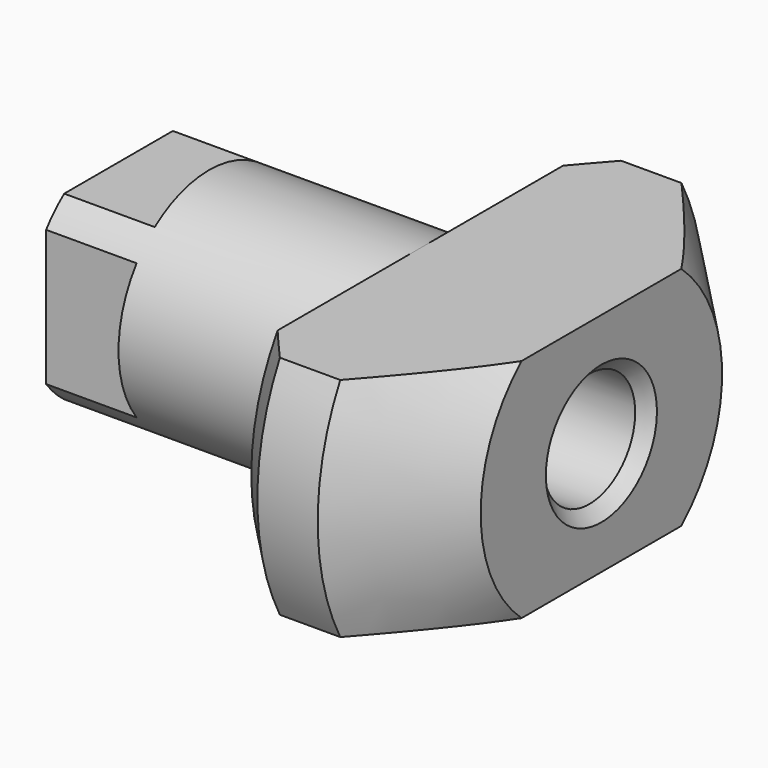
from build123d import *

# Parameters (mm, degrees)
CYLINDER017_R         = 1.9
CYLINDER017_DEPTH     = 5
CYLINDER016_R         = 1.6
CYLINDER016_DEPTH     = 30.25
CYLINDER013_R         = 3.75
CYLINDER013_DEPTH     = 7.25
BOX028_W              = 6
BOX028_H              = 16
BOX028_DEPTH          = 7.5
CHAMFER006006014_SIZE = 3
CYLINDER015_R         = 8
CYLINDER015_DEPTH     = 6
CHAMFER006006017_SIZE = 3
BOX029_W              = 3
BOX029_H              = 6
BOX029_DEPTH          = 6
CYLINDER014_R         = 3.75
CYLINDER014_DEPTH     = 7.25
CHAMFER006006018_SIZE = 0.4
CHAMFER006006020_SIZE = 1


with BuildPart() as cylinder017:
    # Cylinder017 → Cylinder017 (new body)
    with BuildSketch(Plane(origin=(8.25, 15, 22), x_dir=(0, 0, 1), z_dir=(-1, 0, 0))):
        Circle(CYLINDER017_R)
    extrude(amount=CYLINDER017_DEPTH)


with BuildPart() as fusion008:
    # Cylinder016 → Cylinder016 (new body)
    with BuildSketch(Plane(origin=(9.25, 15, 22), x_dir=(0, 0, 1), z_dir=(-1, 0, 0))):
        Circle(CYLINDER016_R)
    extrude(amount=CYLINDER016_DEPTH)

    # Fusion008: union Cylinder017
    add(cylinder017.part)


with BuildPart() as fusion008_1:
    # Fusion008 placement: moved
    add(fusion008.part.moved(Location((-0.25, 0, 0))))


with BuildPart() as cylinder013:
    # Cylinder013 → Cylinder013 (new body)
    with BuildSketch(Plane(origin=(2.25, 15, 22), x_dir=(0, 0, 1), z_dir=(-1, 0, 0))):
        Circle(CYLINDER013_R)
    extrude(amount=CYLINDER013_DEPTH)


with BuildPart() as chamfer006006014:
    # Box028 → Box028 (new body)
    with BuildSketch(Plane(origin=(2, 7, 18.25), x_dir=(1, 0, 0), z_dir=(0, 0, 1))):
        with Locations((3, 8)):
            Rectangle(BOX028_W, BOX028_H)
    extrude(amount=BOX028_DEPTH)

    # Chamfer006006014
    chamfer006006014_edges = [chamfer006006014.edges().sort_by_distance(p)[0] for p in [
        (8, 7, 22),
        (8, 23, 22),
    ]]
    chamfer(chamfer006006014_edges, length=CHAMFER006006014_SIZE)


with BuildPart() as chamfer006006014_1:
    # Chamfer006006014 placement: moved
    add(chamfer006006014.part.moved(Location((0.25, 0, 0))))


with BuildPart() as common003:
    # Cylinder015 → Cylinder015 (new body)
    with BuildSketch(Plane(origin=(2.25, 15, 22), x_dir=(0, 0, -1), z_dir=(1, 0, 0))):
        Circle(CYLINDER015_R)
    extrude(amount=CYLINDER015_DEPTH)

    # Chamfer006006017
    chamfer006006017_edges = [common003.edges().sort_by_distance(p)[0] for p in [
        (8.25, 15, 30),
    ]]
    chamfer(chamfer006006017_edges, length=CHAMFER006006017_SIZE)

    # Common003: intersect Chamfer006006014
    add(chamfer006006014_1.part, mode=Mode.INTERSECT)


with BuildPart() as common003_1:
    # Common003 placement: moved
    add(common003.part.moved(Location((-0.25, 0, 0))))


with BuildPart() as cube028:
    # Box029 → Box029 (new body)
    with BuildSketch(Plane(origin=(-8, 12, 19), x_dir=(1, 0, 0), z_dir=(0, 0, 1))):
        with Locations((1.5, 3)):
            Rectangle(BOX029_W, BOX029_H)
    extrude(amount=BOX029_DEPTH)


with BuildPart() as chamfer006006020:
    # Cylinder014 → Cylinder014 (new body)
    with BuildSketch(Plane(origin=(-3.75, 15, 22), x_dir=(0, 0, 1), z_dir=(-1, 0, 0))):
        Circle(CYLINDER014_R)
    extrude(amount=CYLINDER014_DEPTH)

    # Common: intersect Cube028
    add(cube028.part, mode=Mode.INTERSECT)

    # Fusion011: union Cylinder013, Common003
    add(cylinder013.part)
    add(common003_1.part)

    # Cut002004005002: cut Fusion008
    add(fusion008_1.part, mode=Mode.SUBTRACT)

    # Chamfer006006018
    chamfer006006018_edges = [chamfer006006020.edges().sort_by_distance(p)[0] for p in [
        (8, 15, 20.1),
    ]]
    chamfer(chamfer006006018_edges, length=CHAMFER006006018_SIZE)

    # Chamfer006006020
    chamfer006006020_edges = [chamfer006006020.edges().sort_by_distance(p)[0] for p in [
        (2, 22.763156, 20.067796),
        (2, 22.763156, 23.932204),
        (2, 7.236844, 20.067796),
        (2, 7.236844, 23.932204),
    ]]
    chamfer(chamfer006006020_edges, length=CHAMFER006006020_SIZE)


solid = chamfer006006020.part
